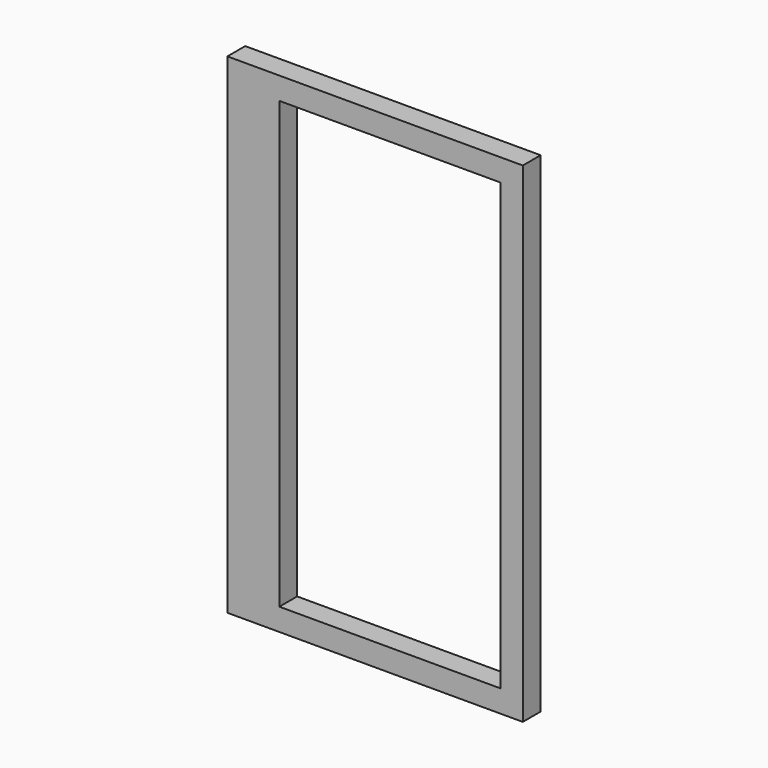
from build123d import *

# Parameters (mm, degrees)
F0_W     = 88.9
F0_H     = 762
F1_DEPTH = 38.1
F2_W     = 505.46
F2_H     = 38.1
F3_DEPTH = 38.1
F4_W     = 38.1
F4_H     = 762
F5_DEPTH = 38.1
F6_W     = 505.46
F6_H     = 38.1
F7_DEPTH = 38.1


with BuildPart() as f1:
    # F0 (on Front) → F1 (new body)
    with BuildSketch(Plane.XZ):
        Rectangle(F0_W, F0_H)
    extrude(amount=F1_DEPTH)

    # F2 (on Front) → F3 (join)
    with BuildSketch(Plane.XZ):
        with Locations((208.28, 400.05)):
            Rectangle(F2_W, F2_H)
    extrude(amount=F3_DEPTH)

    # F4 (on Front) → F5 (join)
    with BuildSketch(Plane.XZ):
        with Locations((441.96, 0)):
            Rectangle(F4_W, F4_H)
    extrude(amount=F5_DEPTH)

    # F6 (on Front) → F7 (join)
    with BuildSketch(Plane.XZ):
        with Locations((208.28, -400.05)):
            Rectangle(F6_W, F6_H)
    extrude(amount=F7_DEPTH)


solid = f1.part
